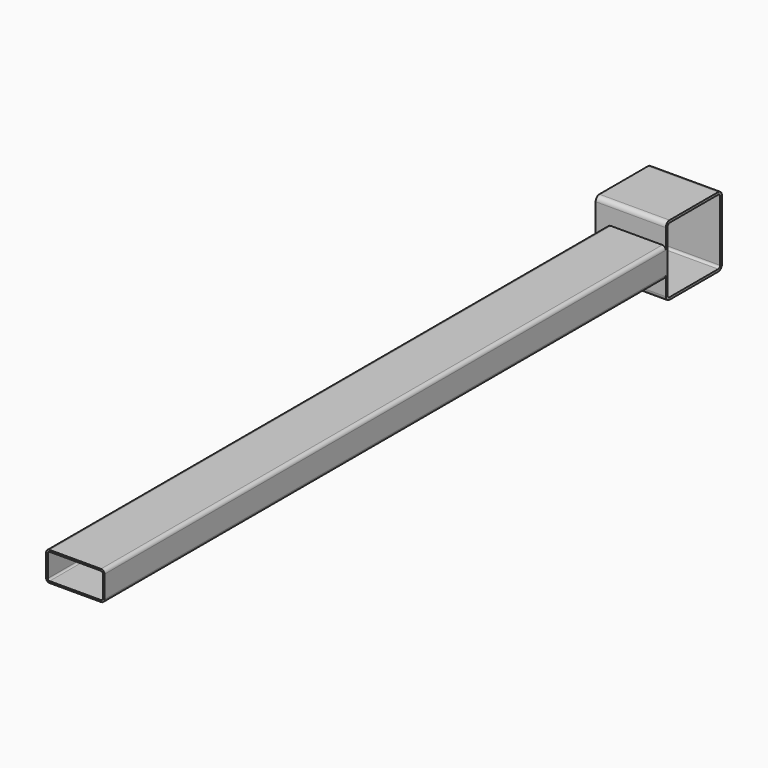
from build123d import *

# Parameters (mm, degrees)
F1_DEPTH = 1200
F3_DEPTH = 120


with BuildPart() as f1:
    # F0 (on Front) → F1 (new body)
    with BuildSketch(Plane.XZ):
        with BuildLine():
            Line((58.743775, 19.06096), (-29.256225, 19.06096))
            ThreePointArc((-29.256225, 19.06096), (-33.498866, 17.303601), (-35.256225, 13.06096))
            Line((-35.256225, 13.06096), (-35.256225, -24.93904))
            ThreePointArc((-35.256225, -24.93904), (-33.498866, -29.18168), (-29.256225, -30.93904))
            Line((-29.256225, -30.93904), (58.743775, -30.93904))
            ThreePointArc((58.743775, -30.93904), (62.986416, -29.18168), (64.743775, -24.93904))
            Line((64.743775, -24.93904), (64.743775, 13.06096))
            ThreePointArc((64.743775, 13.06096), (62.986416, 17.303601), (58.743775, 19.06096))
        make_face()
        with BuildLine():
            ThreePointArc((-32.256225, 13.06096), (-31.377545, 15.182281), (-29.256225, 16.06096))
            Line((-29.256225, 16.06096), (58.743775, 16.06096))
            ThreePointArc((58.743775, 16.06096), (60.865095, 15.182281), (61.743775, 13.06096))
            Line((61.743775, 13.06096), (61.743775, -24.93904))
            ThreePointArc((61.743775, -24.93904), (60.865095, -27.06036), (58.743775, -27.93904))
            Line((58.743775, -27.93904), (-29.256225, -27.93904))
            ThreePointArc((-29.256225, -27.93904), (-31.377545, -27.06036), (-32.256225, -24.93904))
            Line((-32.256225, -24.93904), (-32.256225, 13.06096))
        make_face(mode=Mode.SUBTRACT)
    extrude(amount=F1_DEPTH)

    # F2 (on face) → F3 (join)
    with BuildSketch(Plane.YZ.offset(64.743775)):
        with BuildLine():
            Line((112, 55.06096), (8, 55.06096))
            ThreePointArc((8, 55.06096), (2.343146, 52.717815), (0, 47.06096))
            Line((0, 47.06096), (0, -56.93904))
            ThreePointArc((0, -56.93904), (2.343146, -62.595894), (8, -64.93904))
            Line((8, -64.93904), (112, -64.93904))
            ThreePointArc((112, -64.93904), (117.656854, -62.595894), (120, -56.93904))
            Line((120, -56.93904), (120, 47.06096))
            ThreePointArc((120, 47.06096), (117.656854, 52.717815), (112, 55.06096))
        make_face()
        with BuildLine():
            ThreePointArc((4, 47.06096), (5.171573, 49.889388), (8, 51.06096))
            Line((8, 51.06096), (112, 51.06096))
            ThreePointArc((112, 51.06096), (114.828427, 49.889388), (116, 47.06096))
            Line((116, 47.06096), (116, -56.93904))
            ThreePointArc((116, -56.93904), (114.828427, -59.767467), (112, -60.93904))
            Line((112, -60.93904), (8, -60.93904))
            ThreePointArc((8, -60.93904), (5.171573, -59.767467), (4, -56.93904))
            Line((4, -56.93904), (4, 47.06096))
        make_face(mode=Mode.SUBTRACT)
    extrude(amount=-F3_DEPTH)


solid = f1.part
